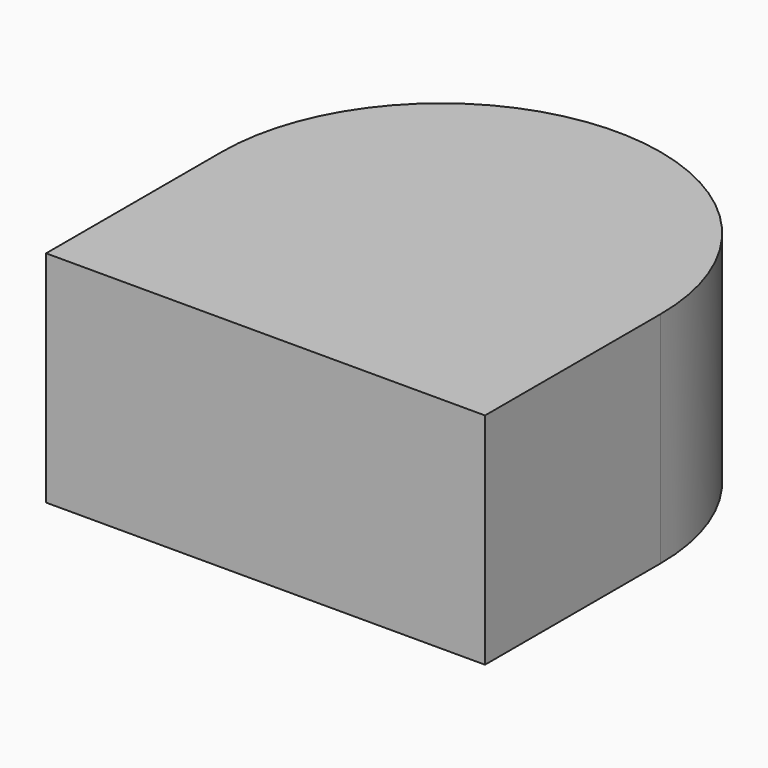
from build123d import *

# Parameters (mm, degrees)
PAD_DEPTH = 4


with BuildPart() as part:
    # Sketch → Pad (new body)
    with BuildSketch(Plane.XY):
        with BuildLine():
            Line((0, 0), (8, 0))
            Line((8, 0), (8, 4))
            ThreePointArc((8, 4), (4, 8), (0, 4))
            Line((0, 0), (0, 4))
        make_face()
    extrude(amount=PAD_DEPTH)


solid = part.part
